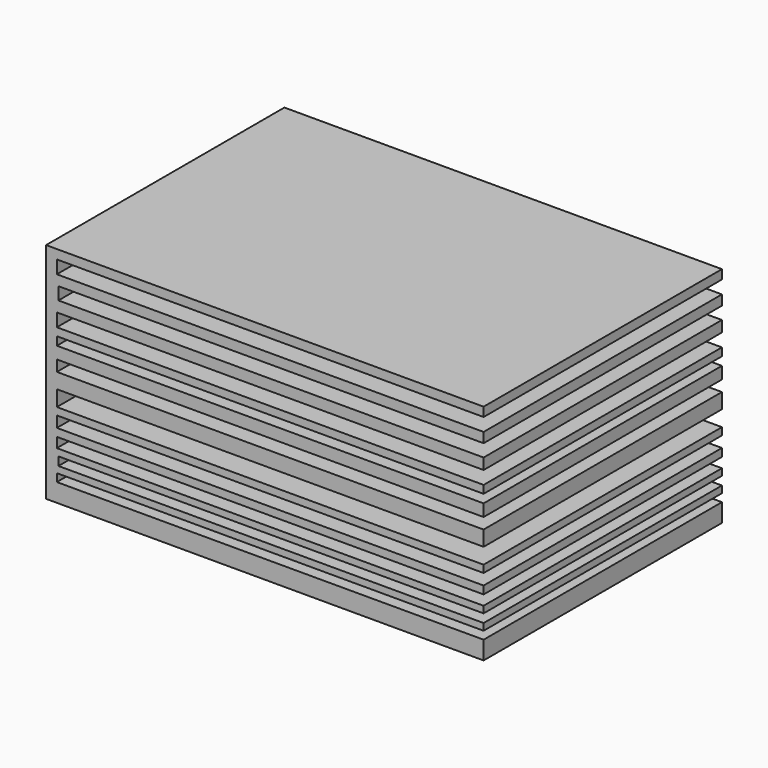
from build123d import *

# Parameters (mm, degrees)
F1_DEPTH = 406.4


with BuildPart() as f1:
    # F0 (on Front) → F1 (new body)
    with BuildSketch(Plane.XZ):
        Polygon((555.312066, 248.246167), (-41.587934, 248.246167), (-41.587934, -56.553833), (555.312066, -56.553833), (555.312066, -31.600095), (-26.879642, -31.600095), (-26.879642, -20.874582), (555.312066, -20.874582), (555.312066, -11.579135), (-24.73454, -11.579135), (-24.73454, 0), (555.312066, 0), (555.312066, 9.15687), (-26.879642, 9.15687), (-26.879642, 22.742523), (555.312066, 22.742523), (555.312066, 33.468042), (-26.879642, 33.468042), (-26.879642, 48.483767), (555.312066, 48.483767), (555.312066, 58.494255), (-26.879642, 58.494255), (-26.879642, 79.945289), (555.312066, 79.945289), (555.312066, 100.68129), (-26.879642, 100.68129), (-26.879642, 115.697011), (555.312066, 115.697011), (555.312066, 132.142812), (-26.879642, 132.142812), (-26.879642, 143.583357), (555.312066, 143.583357), (555.312066, 154.30887), (-26.879642, 154.30887), (-26.879642, 172.184736), (555.312066, 172.184736), (555.312066, 187.200457), (-24.73454, 187.200457), (-24.73454, 204.36129), (555.312066, 204.36129), (555.312066, 217.946947), (-26.879642, 217.946947), (-26.879642, 235.822812), (555.312066, 235.822812), align=None)
    extrude(amount=F1_DEPTH)


solid = f1.part
